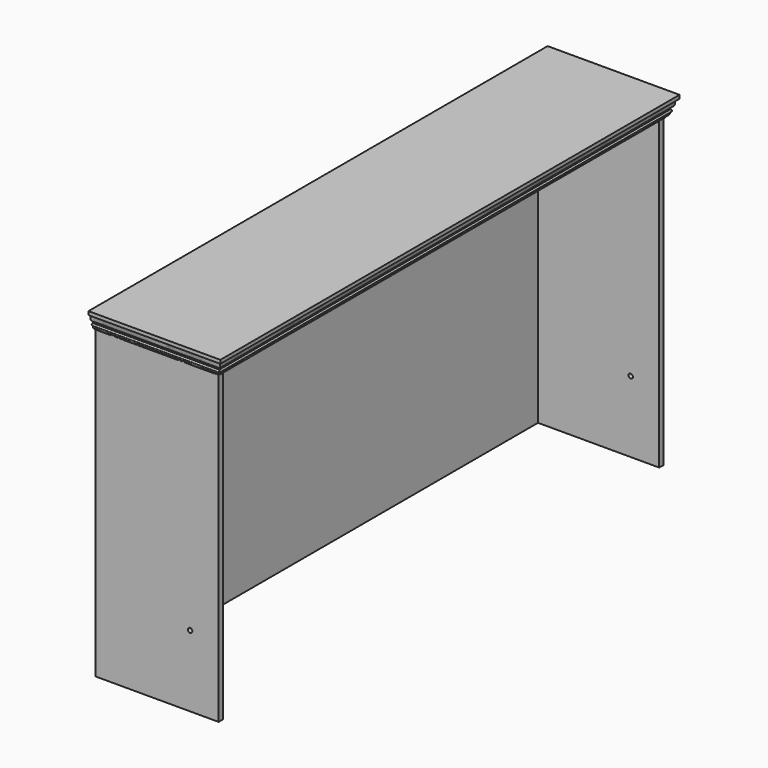
from build123d import *

# Parameters (mm, degrees)
F0_W     = 431.8
F0_H     = 1139.825
F1_DEPTH = 19.05
F2_W     = 431.8
F2_H     = 1981.2
F3_DEPTH = 19.05
F4_W     = 431.8
F4_H     = 1158.875
F5_DEPTH = 19.05
F6_W     = 1981.2
F6_H     = 1158.875
F7_DEPTH = 6.35
F8_R     = 7.9375
F9_DEPTH = 1981.201


with BuildPart() as f1:
    # F0 (on Front) → F1 (new body)
    with BuildSketch(Plane.XZ):
        Rectangle(F0_W, F0_H)
    extrude(amount=F1_DEPTH)

    # F2 (on face) → F3 (join)
    with BuildSketch(Plane.XY.offset(569.9125)):
        with Locations((0, 971.55)):
            Rectangle(F2_W, F2_H)
    extrude(amount=F3_DEPTH)

    # F4 (on face) → F5 (join)
    with BuildSketch(Plane(origin=(0, 1962.15, 0), x_dir=(-1, 0, 0), z_dir=(0, 1, 0))):
        with Locations((0, 9.525)):
            Rectangle(F4_W, F4_H)
    extrude(amount=-F5_DEPTH)

    # F6 (on face) → F7 (join)
    with BuildSketch(Plane(origin=(-215.9, 0, 0), x_dir=(0, -1, 0), z_dir=(-1, 0, 0))):
        with Locations((-971.55, 9.525)):
            Rectangle(F6_W, F6_H)
    extrude(amount=F7_DEPTH)

    # F8 (on face) → F9 (cut, through all)
    with BuildSketch(Plane.XZ.offset(19.05)):
        with Locations((114.3, -315.9125)):
            Circle(F8_R)
    extrude(amount=-F9_DEPTH, mode=Mode.SUBTRACT)

    # F11: sweep along a path in F11_path
    with BuildLine(Plane(origin=(-222.25, -19.05, 588.9625), x_dir=(0, -1, 0), z_dir=(0, 0, -1))) as f11_path:
        Line((0, 0), (0, -438.15))
        Line((0, -438.15), (-1981.2, -438.15))
        Line((-1981.2, -438.15), (-1981.2, 0))
    # F10 (on face) → F11 (sweep)
    with BuildSketch(Plane(origin=(-222.25, 0, 0), x_dir=(0, -1, 0), z_dir=(-1, 0, 0))):
        with BuildLine():
            Line((50.8, 588.9625), (19.05, 588.9625))
            Line((19.05, 588.9625), (19.05, 519.1125))
            add(Edge.make_bspline(
                [(31.75, 531.8125), (31.7416161237, 527.5516487415), (26.7774713092, 527.5153415694), (23.6118440023, 523.3482432431), (23.5768222515, 519.3589263007), (19.05, 519.1125)],
                knots=[0, 0, 0, 0, 0.3590021576, 0.6464061804, 1, 1, 1, 1], degree=3))
            Line((31.75, 531.8125), (31.75, 536.5578590012))
            ThreePointArc((31.75, 536.5578590012), (36.3801046171, 540.2785482407), (31.75, 543.9992374802))
            Line((31.75, 543.9992374802), (31.75, 549.0792374802))
            add(Edge.make_bspline(
                [(50.8, 576.2625), (44.45, 575.8121847948), (40.607321351, 568.7589123857), (42.9363183206, 557.3191982676), (36.2215965457, 551.217864811), (31.75, 549.0792374802)],
                knots=[0, 0, 0, 0, 0.3355358805, 0.6499518775, 1, 1, 1, 1], degree=3))
            Line((50.8, 576.2625), (50.8, 588.9625))
        make_face()
    sweep(path=f11_path.line, transition=Transition.RIGHT)


solid = f1.part
